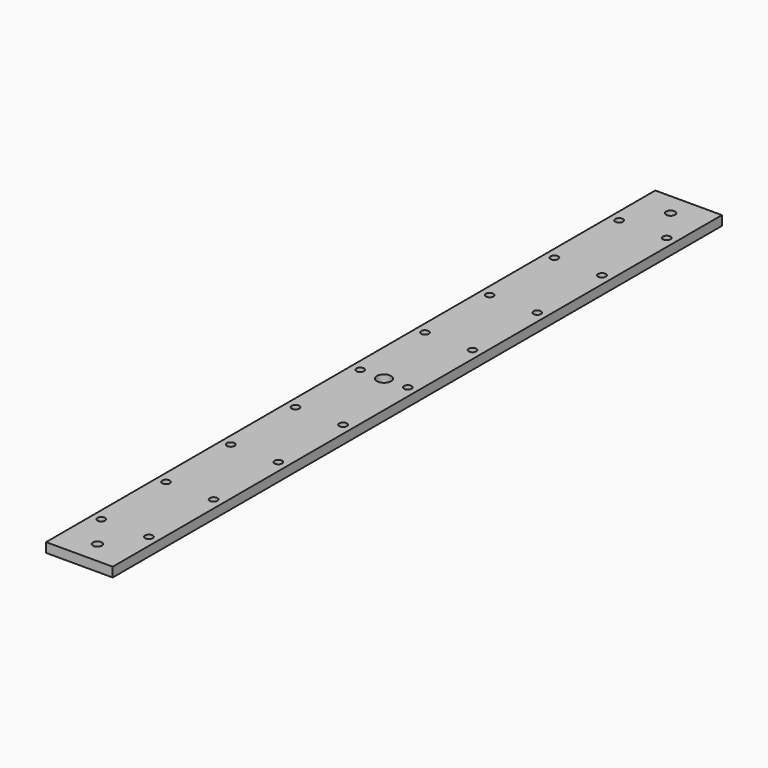
from build123d import *

# Parameters (mm, degrees)
F0_W     = 44.45
F0_H     = 508
F1_DEPTH = 6.35
F3_D     = 5.1054
F4_R     = 3
F5_DEPTH = 6.35
F6_R     = 4.7625
F7_DEPTH = 6.35


with BuildPart() as f1:
    # F0 (on Top) → F1 (new body)
    with BuildSketch(Plane.XY):
        Rectangle(F0_W, F0_H)
    extrude(amount=F1_DEPTH)

    # F3 (through all)
    with Locations(Plane.XY.offset(6.35)):
        with Locations((-15.875, -215.9), (15.875, -215.9), (15.875, -161.925), (-15.875, -161.925), (-15.875, -107.95), (15.875, -107.95), (15.875, -53.975), (-15.875, -53.975), (-15.875, 0), (15.875, 0), (15.875, 53.975), (-15.875, 53.975), (-15.875, 107.95), (15.875, 107.95), (-15.875, 161.925), (15.875, 161.925), (15.875, 215.9), (-15.875, 215.9)):
            Hole(F3_D / 2)

    # F4 (on face) → F5 (cut, through all)
    with BuildSketch(Plane.XY.offset(6.35)):
        with Locations((0, -239)):
            Circle(F4_R)
        with Locations((0, 239)):
            Circle(F4_R)
    extrude(amount=-F5_DEPTH, mode=Mode.SUBTRACT)

    # F6 (on face) → F7 (cut, through all)
    with BuildSketch(Plane.XY.offset(6.35)):
        Circle(F6_R)
    extrude(amount=-F7_DEPTH, mode=Mode.SUBTRACT)


solid = f1.part
